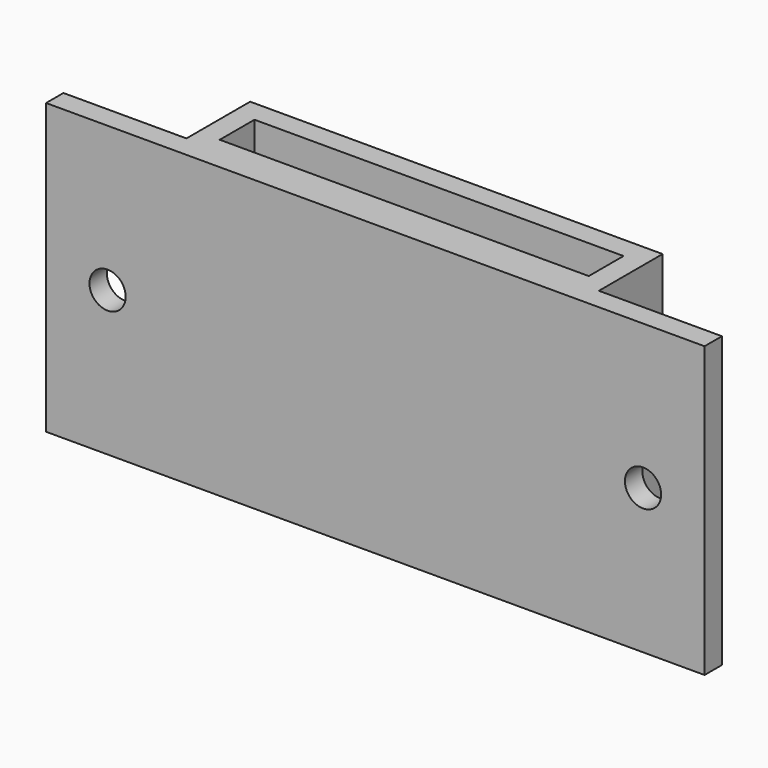
from build123d import *

# Parameters (mm, degrees)
F0_W     = 51
F0_H     = 6
F1_DEPTH = 40
F2_R     = 2.5
F3_DEPTH = 3


with BuildPart() as f1:
    # F0 (on Top) → F1 (new body)
    with BuildSketch(Plane.XY):
        Polygon((0, 3), (0, 0), (91, 0), (91, 3), (74, 3), (74, 14), (17, 14), (17, 3), align=None)
        with Locations((45.5, 8)):
            Rectangle(F0_W, F0_H, mode=Mode.SUBTRACT)
    extrude(amount=F1_DEPTH)

    # F2 (on face) → F3 (cut)
    with BuildSketch(Plane.XZ):
        with Locations((8.5, 20)):
            Circle(F2_R)
        with Locations((82.5, 20)):
            Circle(F2_R)
    extrude(amount=-F3_DEPTH, mode=Mode.SUBTRACT)


solid = f1.part
